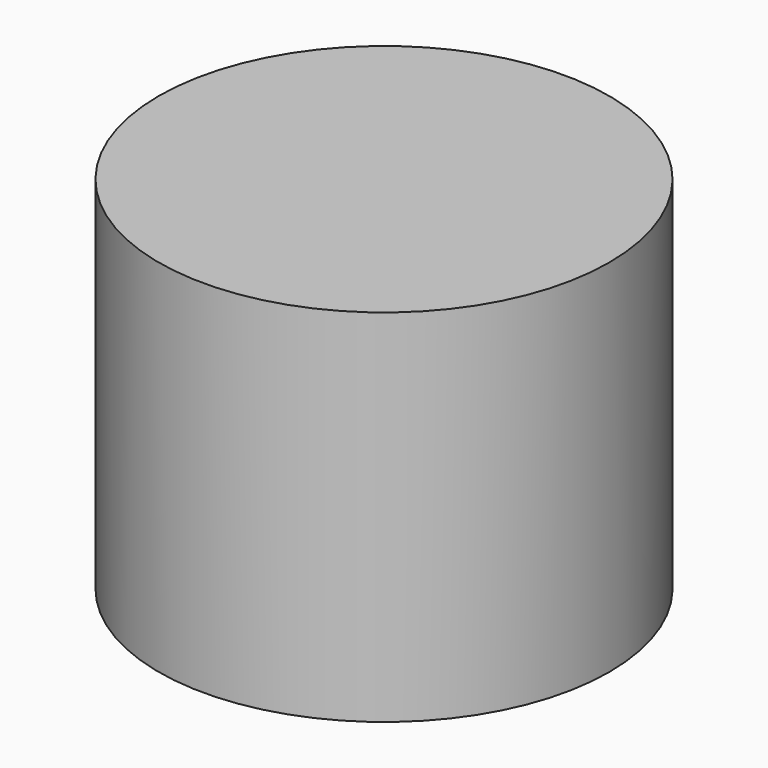
from build123d import *

# Parameters (mm, degrees)
F0_R     = 1270
F1_DEPTH = 2032
F2_R     = 1016
F3_DEPTH = 1778


with BuildPart() as f1:
    # F0 (on Top) → F1 (new body)
    with BuildSketch(Plane.XY):
        Circle(F0_R)
    extrude(amount=-F1_DEPTH)

    # F2 (on face) → F3 (cut)
    with BuildSketch(Plane(origin=(0, 0, -2032), x_dir=(1, 0, 0), z_dir=(0, 0, -1))):
        Circle(F2_R)
    extrude(amount=-F3_DEPTH, mode=Mode.SUBTRACT)


solid = f1.part
